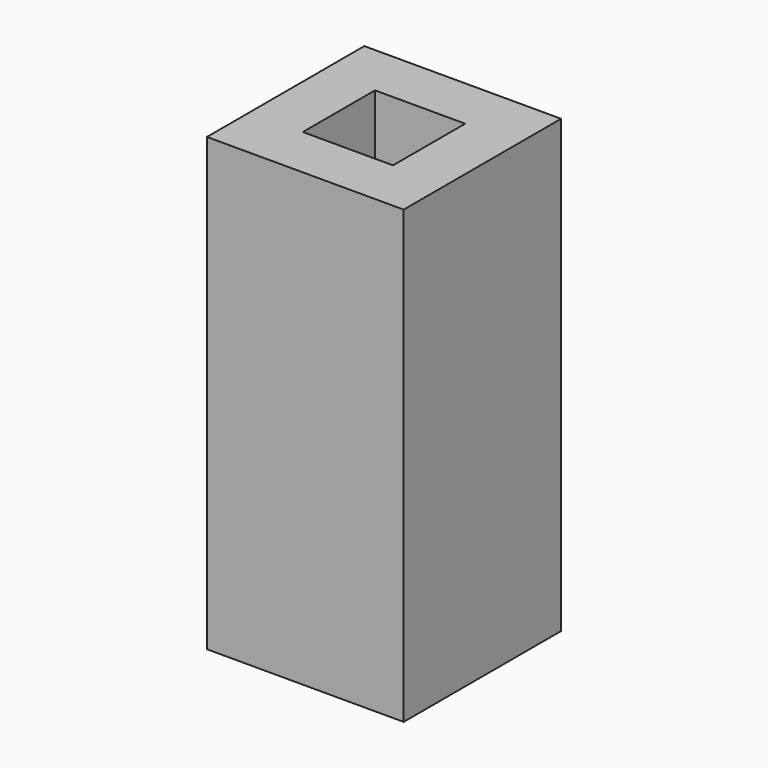
from build123d import *

# Parameters (mm, degrees)
F1_DEPTH = 25.4
F2_DEPTH = 63.5


with BuildPart() as f1:
    # F0 (on Top) → F1 (new body)
    with BuildSketch(Plane.XY):
        Polygon((-69.305263, 16.512023), (-54.305263, 1.512023), (-28.905263, 1.512023), (-13.905263, 16.512023), align=None)
        Polygon((-54.305263, -23.887977), (-54.305263, 1.512023), (-69.305263, 16.512023), (-69.305263, -38.887977), align=None)
        Polygon((-13.905263, 16.512023), (-28.905263, 1.512023), (-28.905263, -23.887977), (-13.905263, -38.887977), align=None)
        Polygon((-28.905263, -23.887977), (-54.305263, -23.887977), (-69.305263, -38.887977), (-13.905263, -38.887977), align=None)
    extrude(amount=F1_DEPTH)

    # F0 (on Top) → F2 (join, symmetric)
    with BuildSketch(Plane.XY):
        Polygon((-69.305263, 16.512023), (-54.305263, 1.512023), (-28.905263, 1.512023), (-13.905263, 16.512023), align=None)
        Polygon((-54.305263, -23.887977), (-54.305263, 1.512023), (-69.305263, 16.512023), (-69.305263, -38.887977), align=None)
        Polygon((-13.905263, 16.512023), (-28.905263, 1.512023), (-28.905263, -23.887977), (-13.905263, -38.887977), align=None)
        Polygon((-28.905263, -23.887977), (-54.305263, -23.887977), (-69.305263, -38.887977), (-13.905263, -38.887977), align=None)
    extrude(amount=F2_DEPTH, both=True)


solid = f1.part
